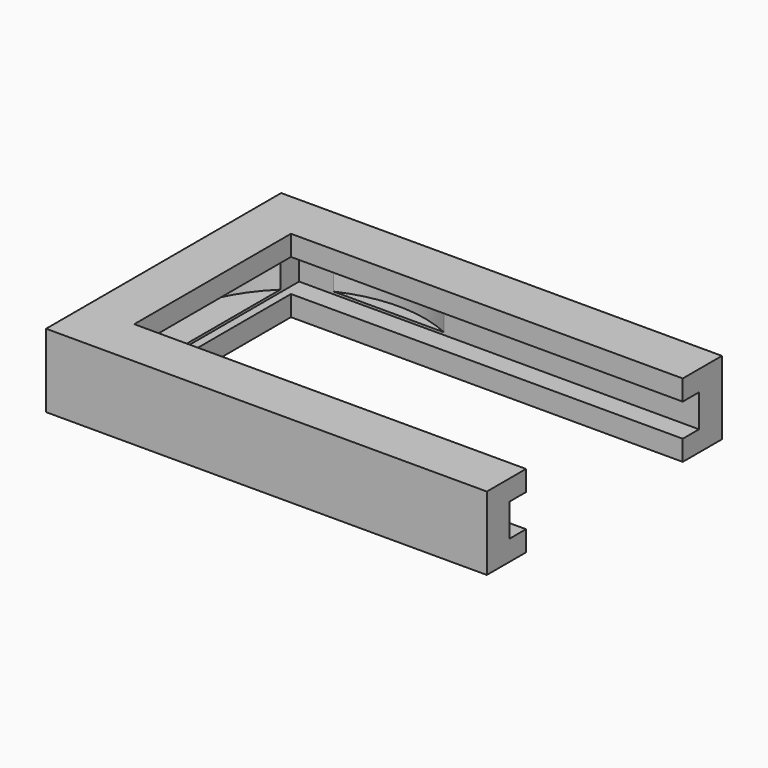
from build123d import *

# Parameters (mm, degrees)
CYLINDER_R     = 16
CYLINDER_DEPTH = 3.4
BOX002_W       = 50
BOX002_H       = 29
BOX002_DEPTH   = 4
BOX001_W       = 58
BOX001_H       = 24
BOX001_DEPTH   = 30
BOX_W          = 54
BOX_H          = 36
BOX_DEPTH      = 9


with BuildPart() as lens_hole:
    # Cylinder → Cylinder (new body)
    with BuildSketch(Plane.XY.offset(-1.7)):
        Circle(CYLINDER_R)
    extrude(amount=CYLINDER_DEPTH)


with BuildPart() as inner_lens_extraction_cube:
    # Box002 → Box002 (new body)
    with BuildSketch(Plane(origin=(-11, -14.5, -2), x_dir=(1, 0, 0), z_dir=(0, 0, 1))):
        with Locations((25, 14.5)):
            Rectangle(BOX002_W, BOX002_H)
    extrude(amount=BOX002_DEPTH)


with BuildPart() as holder_cut_fusion:
    # Box001 → Box001 (new body)
    with BuildSketch(Plane(origin=(-10, -12, -15), x_dir=(1, 0, 0), z_dir=(0, 0, 1))):
        with Locations((29, 12)):
            Rectangle(BOX001_W, BOX001_H)
    extrude(amount=BOX001_DEPTH)

    # Fusion: union lens hole, inner lens extraction cube
    add(lens_hole.part)
    add(inner_lens_extraction_cube.part)


with BuildPart() as holder_cut:
    # Box → Box (new body)
    with BuildSketch(Plane(origin=(-16, -18, -4.5), x_dir=(1, 0, 0), z_dir=(0, 0, 1))):
        with Locations((27, 18)):
            Rectangle(BOX_W, BOX_H)
    extrude(amount=BOX_DEPTH)

    # Cut: cut holder cut fusion
    add(holder_cut_fusion.part, mode=Mode.SUBTRACT)


solid = holder_cut.part
